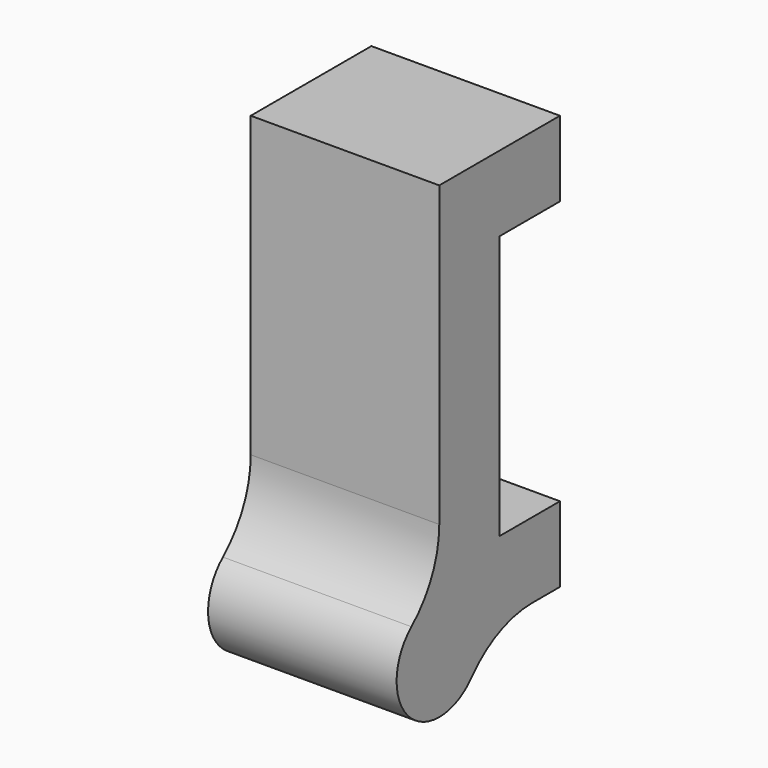
from build123d import *

# Parameters (mm, degrees)
F1_DEPTH = 25
F2_R     = 13.278175


with BuildPart() as f1:
    # F0 (on Right) → F1 (new body)
    with BuildSketch(Plane.YZ):
        with BuildLine():
            Line((10, 0), (0, 0))
            Line((0, 0), (0, 35))
            Line((0, 35), (10, 35))
            Line((10, 35), (10, 45))
            Line((10, 45), (-10, 45))
            Line((-10, 45), (-10, -2.928932))
            ThreePointArc((-10, -2.928932), (-5, -5), (-2.928932, -10))
            Line((-2.928932, -10), (10, -10))
            Line((10, -10), (10, 0))
        make_face()
        with BuildLine():
            Line((-10, -10), (-2.928932, -10))
            ThreePointArc((-2.928932, -10), (-5, -5), (-10, -2.928932))
            Line((-10, -2.928932), (-10, -10))
        make_face()
        with BuildLine():
            ThreePointArc((-10, -2.928932), (-15, -15), (-2.928932, -10))
            Line((-2.928932, -10), (-10, -10))
            Line((-10, -10), (-10, -2.928932))
        make_face()
    extrude(amount=F1_DEPTH)

    # F2
    f2_edges = [f1.edges().sort_by_distance(p)[0] for p in [
        (12.5, -10, -2.928932),
        (12.5, -2.928932, -10),
    ]]
    fillet(f2_edges, radius=F2_R)


solid = f1.part
